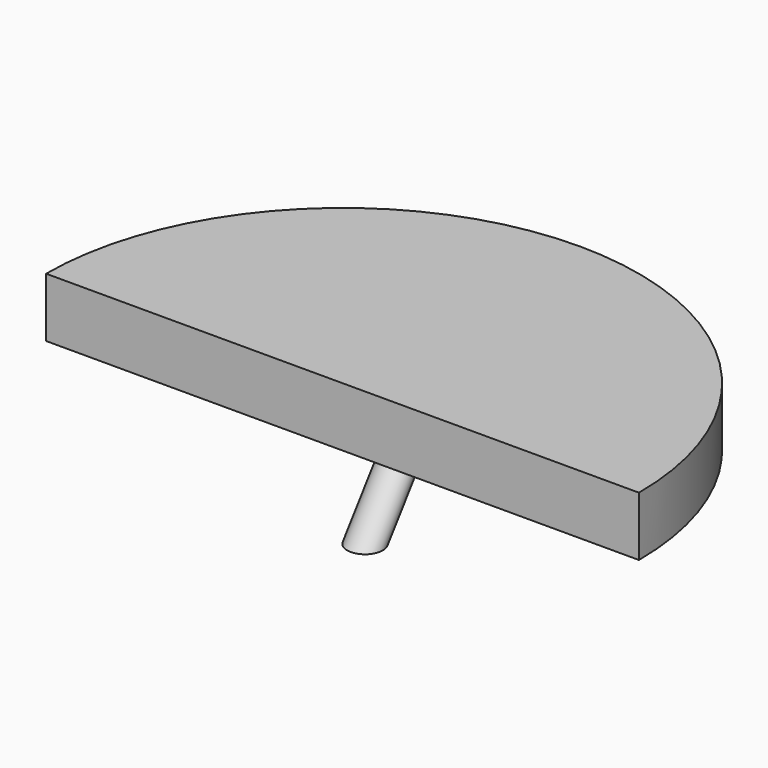
from build123d import *

# Parameters (mm, degrees)
F1_DEPTH = 6.35
F3_DEPTH = 25.4
F4_R     = 3.81


with BuildPart() as f1:
    # F0 (on Top) → F1 (new body, symmetric)
    with BuildSketch(Plane.XY):
        with BuildLine():
            Line((-63.5, 0), (63.5, 0))
            ThreePointArc((63.5, 0), (0, 63.5), (-63.5, 0))
        make_face()
    extrude(amount=F1_DEPTH, both=True)

    # F2 (on Top) → F3 (cut)
    with BuildSketch(Plane.XY):
        with BuildLine():
            Line((-50.2836502119, 7.2245775906), (50.2836502119, 7.2245775906))
            ThreePointArc((50.2836502119, 7.2245775906), (0, 50.8), (-50.2836502119, 7.2245775906))
        make_face()
    extrude(amount=-F3_DEPTH, mode=Mode.SUBTRACT)

    # F6: sweep along a path in F5
    with BuildLine(Plane.YZ) as f6_path:
        Line((25.5370624363, 0), (6.1716223136, -26.4036767185))
    # F4 (on Top) → F6 (sweep)
    with BuildSketch(Plane.XY):
        with Locations((0, 25.4)):
            Circle(F4_R)
    sweep(path=f6_path.line)


solid = f1.part
